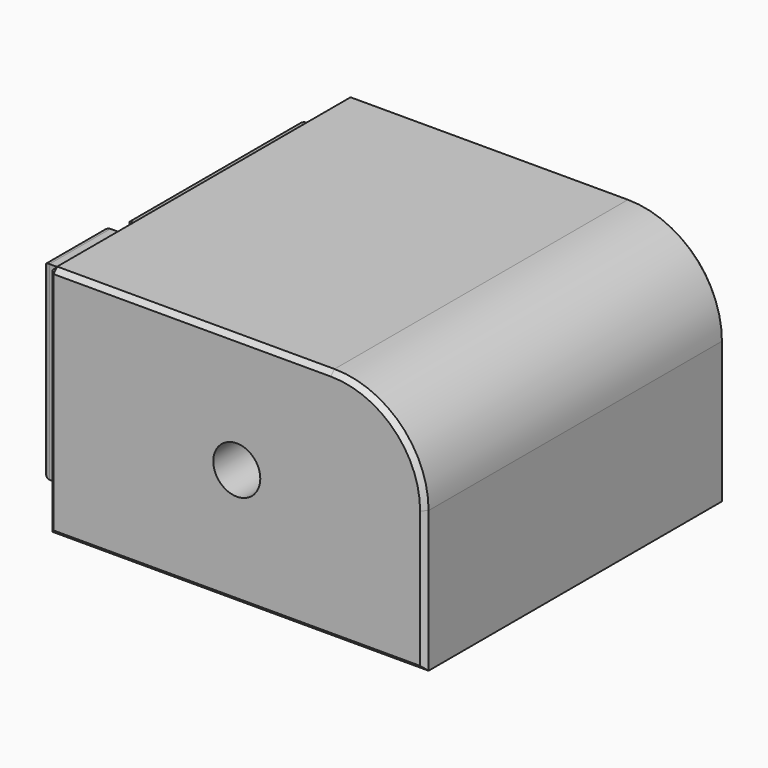
from build123d import *

# Parameters (mm, degrees)
F0_W     = 16
F0_H     = 16
F1_DEPTH = 10
F2_R     = 4
F3_W     = 9.202218
F3_H     = 1.946622
F3_W_2   = 9.320195
F3_H_2   = 2.654486
F3_W_3   = 9.261206
F3_H_3   = 1.179772
F3_W_4   = 3.244372
F3_H_4   = 8.081435
F4_DEPTH = 1.2
F5_R     = 0.3
F6_SIZE  = 0.2
F7_R     = 1
F8_DEPTH = 16.001


with BuildPart() as f1:
    # F0 (on Top) → F1 (new body)
    with BuildSketch(Plane.XY):
        Rectangle(F0_W, F0_H)
    extrude(amount=F1_DEPTH)

    # F2
    f2_edges = [f1.edges().sort_by_distance(p)[0] for p in [
        (8, 0, 10),
    ]]
    fillet(f2_edges, radius=F2_R)

    # F3 (on face) → F4 (join)
    with BuildSketch(Plane(origin=(-8, 0, 0), x_dir=(0, -1, 0), z_dir=(-1, 0, 0))):
        with Locations((-2.188604, 8.136063)):
            Rectangle(F3_W, F3_H)
        with Locations((-2.247592, 4.655737)):
            Rectangle(F3_W_2, F3_H_2)
        with Locations((-2.218098, 1.794791)):
            Rectangle(F3_W_3, F3_H_3)
        with Locations((5.214463, 5.304612)):
            Rectangle(F3_W_4, F3_H_4)
    extrude(amount=F4_DEPTH)

    # F5
    f5_edges = [f1.edges().sort_by_distance(p)[0] for p in [
        (-9.2, 2.188604, 9.109374),
        (-9.2, -2.412505, 8.136063),
        (-9.2, 2.188604, 7.162752),
        (-9.2, 2.247592, 5.98298),
        (-9.2, -2.412505, 4.655737),
        (-9.2, 2.247592, 3.328494),
        (-9.2, 2.218098, 2.384677),
        (-9.2, -2.412505, 1.794791),
        (-9.2, 2.218098, 1.204905),
        (-9.2, -5.214463, 9.345329),
        (-9.2, -6.836649, 5.304612),
        (-9.2, -3.592277, 5.304612),
        (-9.2, -5.214463, 1.263894),
        (-9.2, 6.789713, 8.136063),
        (-9.2, 6.90769, 4.655737),
        (-9.2, 6.848701, 1.794791),
    ]]
    fillet(f5_edges, radius=F5_R)

    # F6
    f6_edges = [f1.edges().sort_by_distance(p)[0] for p in [
        (8, -8, 3),
        (6.828427, -8, 8.828427),
        (0, -8, 0),
        (-2, -8, 10),
        (-8, -8, 5),
        (8, 8, 3),
        (6.828427, 8, 8.828427),
        (0, 8, 0),
        (-2, 8, 10),
        (-8, 8, 5),
        (-8, 0, 10),
    ]]
    chamfer(f6_edges, length=F6_SIZE)

    # F7 (on face) → F8 (cut, through all)
    with BuildSketch(Plane.XZ.offset(8)):
        with Locations((0, 5)):
            Circle(F7_R)
    extrude(amount=-F8_DEPTH, mode=Mode.SUBTRACT)


solid = f1.part
